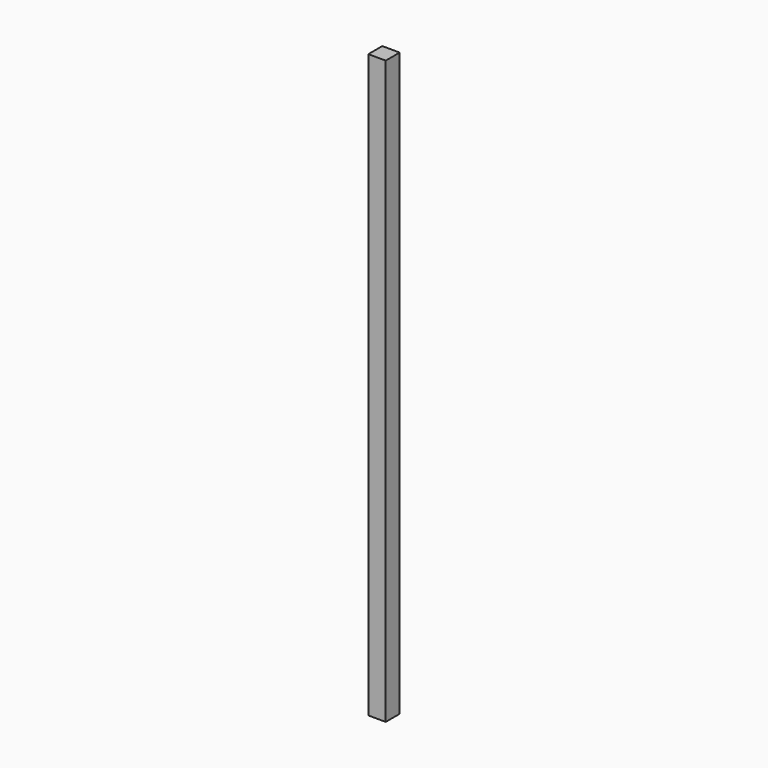
from build123d import *

# Parameters (mm, degrees)
SKETCH_W  = 18
SKETCH_H  = 18
PAD_DEPTH = 600


with BuildPart() as part:
    # Sketch → Pad (new body)
    with BuildSketch(Plane.XY):
        with Locations((9, 9)):
            Rectangle(SKETCH_W, SKETCH_H)
    extrude(amount=PAD_DEPTH)


solid = part.part
